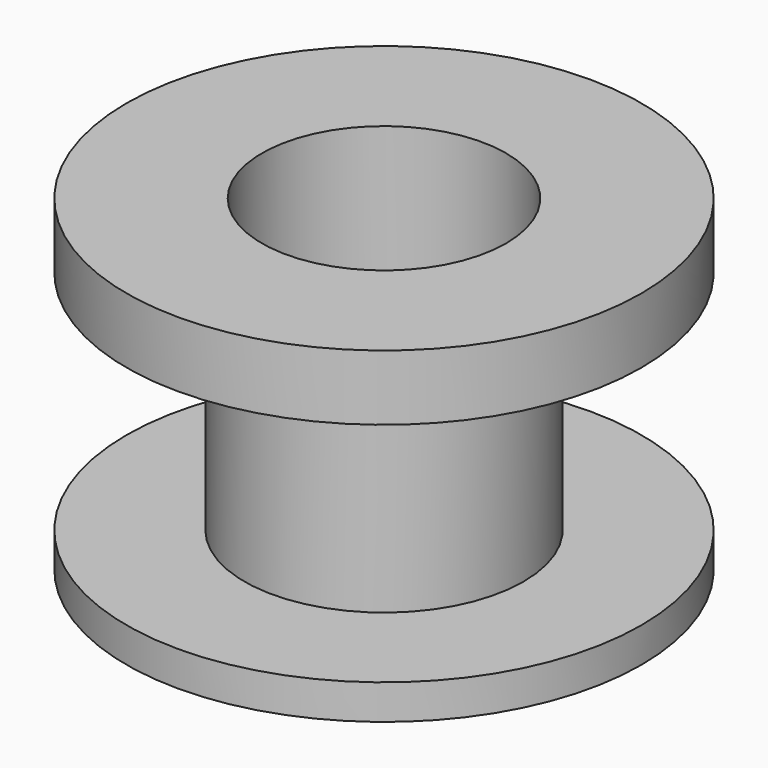
from build123d import *

# Parameters (mm, degrees)
F0_R     = 7.5
F0_R_2   = 3.556
F1_DEPTH = 9.525
F2_W     = 15
F2_H     = 6.604


with BuildPart() as f1:
    # F0 (on Top) → F1 (new body)
    with BuildSketch(Plane.XY):
        Circle(F0_R)
        Circle(F0_R_2, mode=Mode.SUBTRACT)
    extrude(amount=F1_DEPTH)

    # F2 (on Front) → F4 (revolve, cut)
    with BuildSketch(Plane.XZ):
        with Locations((11.564, 4.318)):
            Rectangle(F2_W, F2_H)
    revolve(axis=Axis((0, 0, 5.091826), (0, 0, 1)), mode=Mode.SUBTRACT)


solid = f1.part
